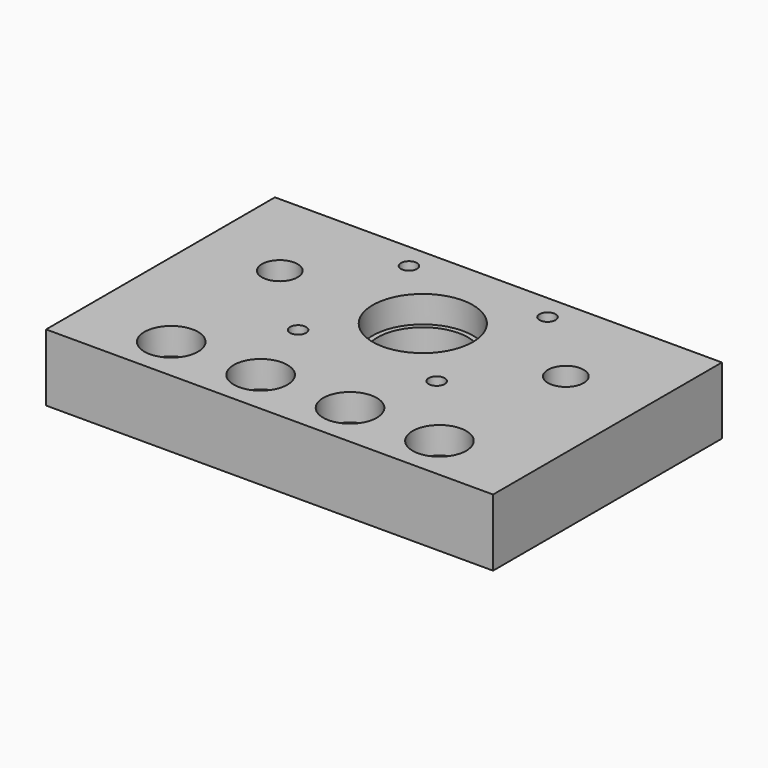
from build123d import *

# Parameters (mm, degrees)
SKETCH_W        = 100
SKETCH_H        = 64
SKETCH_R        = 10.1
SKETCH_R_2      = 1.8
SKETCH_R_3      = 3.2
SKETCH_R_4      = 4
PAD_DEPTH       = 15
SKETCH001_R     = 11.2
SKETCH001_R_2   = 6
POCKET_DEPTH    = 6
SKETCH002_R     = 3.2
POCKET001_DEPTH = 3.2
SKETCH003_R     = 6
POCKET002_DEPTH = 6
SKETCH004_R     = 3.2
POCKET003_DEPTH = 15


with BuildPart() as part:
    # Sketch → Pad (new body)
    with BuildSketch(Plane.XY):
        with Locations((50, 32)):
            Rectangle(SKETCH_W, SKETCH_H)
        with Locations((50, 42.85)):
            Circle(SKETCH_R, mode=Mode.SUBTRACT)
        with Locations((65.5, 58.35)):
            Circle(SKETCH_R_2, mode=Mode.SUBTRACT)
        with Locations((65.5, 27.35)):
            Circle(SKETCH_R_2, mode=Mode.SUBTRACT)
        with Locations((34.5, 27.35)):
            Circle(SKETCH_R_2, mode=Mode.SUBTRACT)
        with Locations((34.5, 58.35)):
            Circle(SKETCH_R_2, mode=Mode.SUBTRACT)
        with Locations((20, 10)):
            Circle(SKETCH_R_3, mode=Mode.SUBTRACT)
        with Locations((80, 10)):
            Circle(SKETCH_R_3, mode=Mode.SUBTRACT)
        with Locations((82, 42.85)):
            Circle(SKETCH_R_4, mode=Mode.SUBTRACT)
        with Locations((18, 42.85)):
            Circle(SKETCH_R_4, mode=Mode.SUBTRACT)
    extrude(amount=PAD_DEPTH)

    # Sketch001 (on Face15 of Pad) → Pocket (cut)
    with BuildSketch(Plane.XY.offset(15)):
        with Locations((50, 42.85)):
            Circle(SKETCH001_R)
        with Locations((20, 10)):
            Circle(SKETCH001_R_2)
        with Locations((80, 10)):
            Circle(SKETCH001_R_2)
    extrude(amount=-POCKET_DEPTH, mode=Mode.SUBTRACT)

    # Sketch002 (on Face4 of Pocket) → Pocket001 (cut)
    with BuildSketch(Plane(origin=(0, 0, 0), x_dir=(1, 0, 0), z_dir=(0, 0, -1))):
        with Locations((34.5, -27.35)):
            Circle(SKETCH002_R)
        with Locations((65.5, -27.35)):
            Circle(SKETCH002_R)
        with Locations((34.5, -58.35)):
            Circle(SKETCH002_R)
        with Locations((65.5, -58.35)):
            Circle(SKETCH002_R)
    extrude(amount=-POCKET001_DEPTH, mode=Mode.SUBTRACT)

    # Sketch003 (on Face5 of Pocket001) → Pocket002 (cut)
    with BuildSketch(Plane.XY.offset(15)):
        with Locations((40, 10)):
            Circle(SKETCH003_R)
        with Locations((60, 10)):
            Circle(SKETCH003_R)
    extrude(amount=-POCKET002_DEPTH, mode=Mode.SUBTRACT)

    # Sketch004 (on Face4 of Pocket002) → Pocket003 (cut)
    with BuildSketch(Plane(origin=(0, 0, 0), x_dir=(1, 0, 0), z_dir=(0, 0, -1))):
        with Locations((40, -10)):
            Circle(SKETCH004_R)
        with Locations((60, -10)):
            Circle(SKETCH004_R)
    extrude(amount=-POCKET003_DEPTH, mode=Mode.SUBTRACT)


solid = part.part
